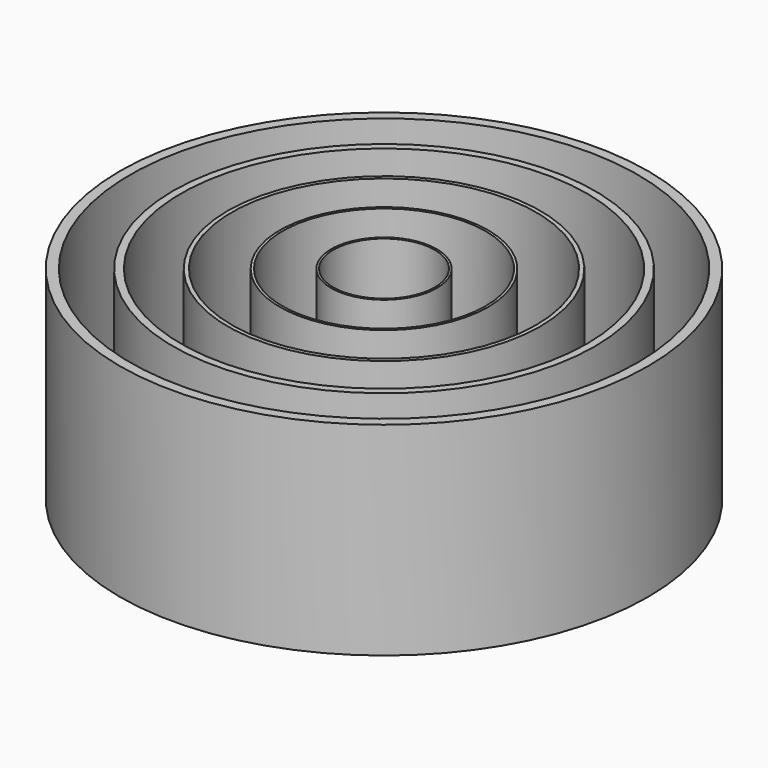
from build123d import *

# Parameters (mm, degrees)
F0_R     = 26
F0_R_2   = 25
F0_R_3   = 20.75
F0_R_4   = 20
F0_R_5   = 15.4
F0_R_6   = 15
F0_R_7   = 10.25
F0_R_8   = 10
F0_R_9   = 5.2
F0_R_10  = 5
F1_DEPTH = 20


with BuildPart() as f1:
    # F0 (on Top) → F1 (new body)
    with BuildSketch(Plane.XY):
        Circle(F0_R)
        Circle(F0_R_2, mode=Mode.SUBTRACT)
        Circle(F0_R_3)
        Circle(F0_R_4, mode=Mode.SUBTRACT)
        Circle(F0_R_5)
        Circle(F0_R_6, mode=Mode.SUBTRACT)
        Circle(F0_R_7)
        Circle(F0_R_8, mode=Mode.SUBTRACT)
        Circle(F0_R_9)
        Circle(F0_R_10, mode=Mode.SUBTRACT)
    extrude(amount=F1_DEPTH)


solid = f1.part
